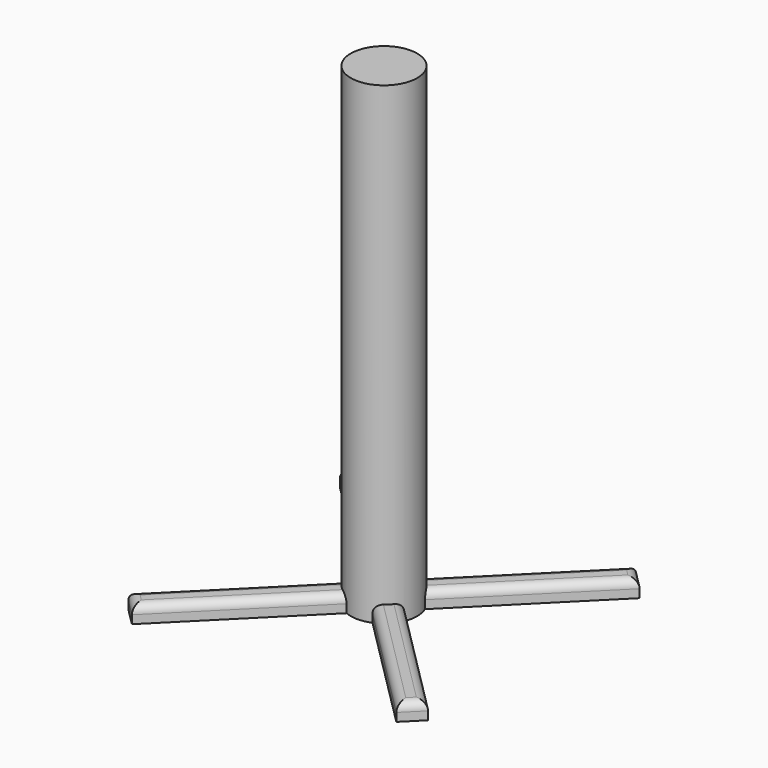
from build123d import *

# Parameters (mm, degrees)
F0_R     = 50.8
F1_DEPTH = 723.9
F3_DEPTH = 25.4
F4_R     = 12.7


with BuildPart() as f1:
    # F0 (on Top) → F1 (new body)
    with BuildSketch(Plane.XY):
        Circle(F0_R)
    extrude(amount=-F1_DEPTH)

    # F2 (on face) → F3 (join)
    with BuildSketch(Plane(origin=(0, 0, -723.9), x_dir=(1, 0, 0), z_dir=(0, 0, -1))):
        with BuildLine():
            Line((-228.996531, 202.055763), (-46.770065, 19.829297))
            ThreePointArc((-46.770065, 19.829297), (-35.921024, 35.921024), (-19.829297, 46.770065))
            Line((-19.829297, 46.770065), (-202.055763, 228.996531))
            Line((-202.055763, 228.996531), (-228.996531, 202.055763))
        make_face()
        with BuildLine():
            Line((202.055763, 228.996531), (19.829297, 46.770065))
            ThreePointArc((19.829297, 46.770065), (35.921024, 35.921024), (46.770065, 19.829297))
            Line((46.770065, 19.829297), (228.996531, 202.055763))
            Line((228.996531, 202.055763), (202.055763, 228.996531))
        make_face()
        with BuildLine():
            ThreePointArc((46.770065, -19.829297), (35.921024, -35.921024), (19.829297, -46.770065))
            Line((19.829297, -46.770065), (202.055763, -228.996531))
            Line((202.055763, -228.996531), (228.996531, -202.055763))
            Line((228.996531, -202.055763), (46.770065, -19.829297))
        make_face()
        with BuildLine():
            ThreePointArc((-19.829297, -46.770065), (-35.921024, -35.921024), (-46.770065, -19.829297))
            Line((-46.770065, -19.829297), (-228.996531, -202.055763))
            Line((-228.996531, -202.055763), (-202.055763, -228.996531))
            Line((-202.055763, -228.996531), (-19.829297, -46.770065))
        make_face()
    extrude(amount=-F3_DEPTH)

    # F4
    f4_edges = [f1.edges().sort_by_distance(p)[0] for p in [
        (-110.94253, -137.883298, -698.5),
        (-215.526147, -215.526147, -698.5),
        (-137.883298, -110.94253, -698.5),
        (-137.883298, 110.94253, -698.5),
        (-215.526147, 215.526147, -698.5),
        (-110.94253, 137.883298, -698.5),
        (110.94253, 137.883298, -698.5),
        (137.883298, 110.94253, -698.5),
        (215.526147, 215.526147, -698.5),
        (137.883298, -110.94253, -698.5),
        (110.94253, -137.883298, -698.5),
        (215.526147, -215.526147, -698.5),
    ]]
    fillet(f4_edges, radius=F4_R)


with BuildPart() as f5_1:
    # F5: copy of F1
    add(f1.part)


solid = f1.part
